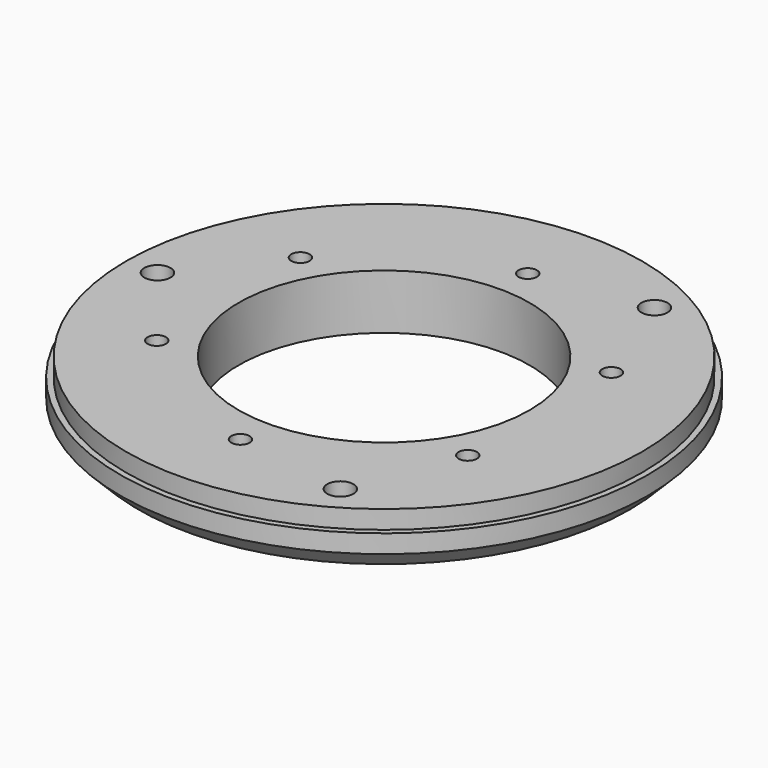
from build123d import *

# Parameters (mm, degrees)
SKETCH_R         = 50.425
PAD_DEPTH        = 7
SKETCH001_R      = 49.3
PAD001_DEPTH     = 3.5
CHAMFER_SIZE     = 3.5
SKETCH002_R      = 27.8
SKETCH002_R_2    = 2.5
SKETCH002_R_3    = 1.75
POCKET_DEPTH     = 10.501
CHAMFER001_ANGLE = 70
CHAMFER001_SIZE  = 1


with BuildPart() as part:
    # Sketch → Pad (new body)
    with BuildSketch(Plane.XY):
        Circle(SKETCH_R)
    extrude(amount=PAD_DEPTH)

    # Sketch001 (on Face3 of Pad) → Pad001 (join)
    with BuildSketch(Plane.XY.offset(7)):
        Circle(SKETCH001_R)
    extrude(amount=PAD001_DEPTH)

    # Chamfer
    chamfer_edges = [part.edges().sort_by_distance(p)[0] for p in [
        (-50.425, 0, 0),
    ]]
    chamfer(chamfer_edges, length=CHAMFER_SIZE)

    # Sketch002 (on Face6 of Chamfer) → Pocket (cut, through all)
    with BuildSketch(Plane.XY.offset(10.5)):
        Circle(SKETCH002_R)
        with Locations((-43.3, 0)):
            Circle(SKETCH002_R_2)
        with Locations((21.65, 37.4989)):
            Circle(SKETCH002_R_2)
        with Locations((21.65, -37.4989)):
            Circle(SKETCH002_R_2)
        with Locations((-29.704671, 17.15)):
            Circle(SKETCH002_R_3)
        with Locations((0, 34.3)):
            Circle(SKETCH002_R_3)
        with Locations((29.704671, 17.15)):
            Circle(SKETCH002_R_3)
        with Locations((29.704671, -17.15)):
            Circle(SKETCH002_R_3)
        with Locations((0, -34.3)):
            Circle(SKETCH002_R_3)
        with Locations((-29.704671, -17.15)):
            Circle(SKETCH002_R_3)
    extrude(amount=-POCKET_DEPTH, mode=Mode.SUBTRACT)

    # Chamfer001
    chamfer001_edges = [part.edges().sort_by_distance(p)[0] for p in [
        (19.15, -37.4989, 0),
        (-45.8, 0, 0),
        (19.15, 37.4989, 0),
    ]]
    chamfer001_side = part.faces().sort_by_distance((-46.792276, 0, 0))[0]
    chamfer(chamfer001_edges, length=CHAMFER001_SIZE, angle=CHAMFER001_ANGLE, reference=chamfer001_side)


solid = part.part
